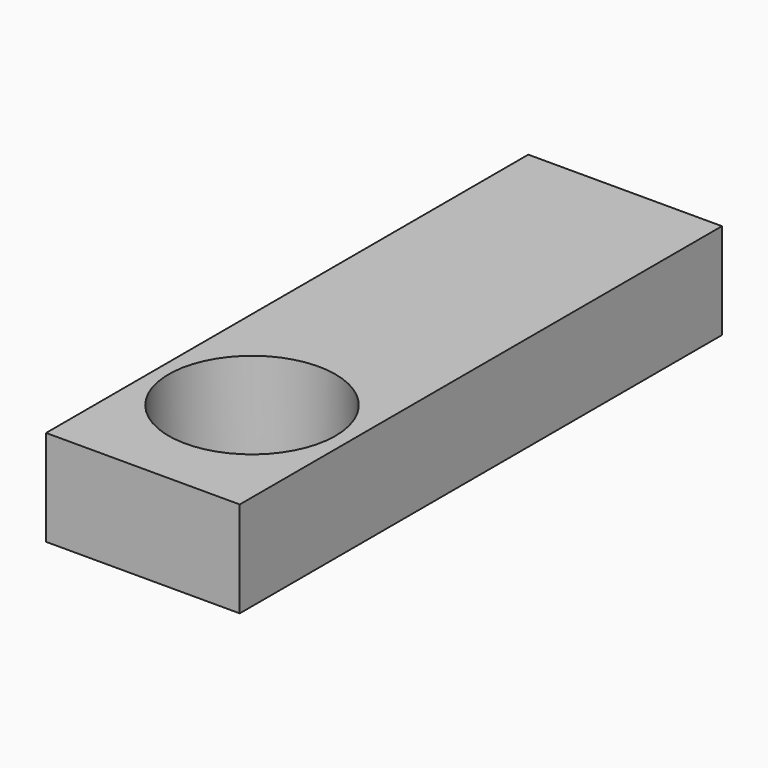
from build123d import *

# Parameters (mm, degrees)
F0_W     = 81.611588
F0_H     = 40.411144
F1_DEPTH = 254
F2_R     = 35.152573
F3_DEPTH = 254


with BuildPart() as f1:
    # F0 (on Front) → F1 (new body)
    with BuildSketch(Plane.XZ):
        with Locations((13.023123, 10.158926)):
            Rectangle(F0_W, F0_H)
    extrude(amount=F1_DEPTH)

    # F2 (on face) → F3 (cut)
    with BuildSketch(Plane.XY.offset(30.364498)):
        with Locations((12.749678, -196.172729)):
            Circle(F2_R)
    extrude(amount=-F3_DEPTH, mode=Mode.SUBTRACT)


solid = f1.part
